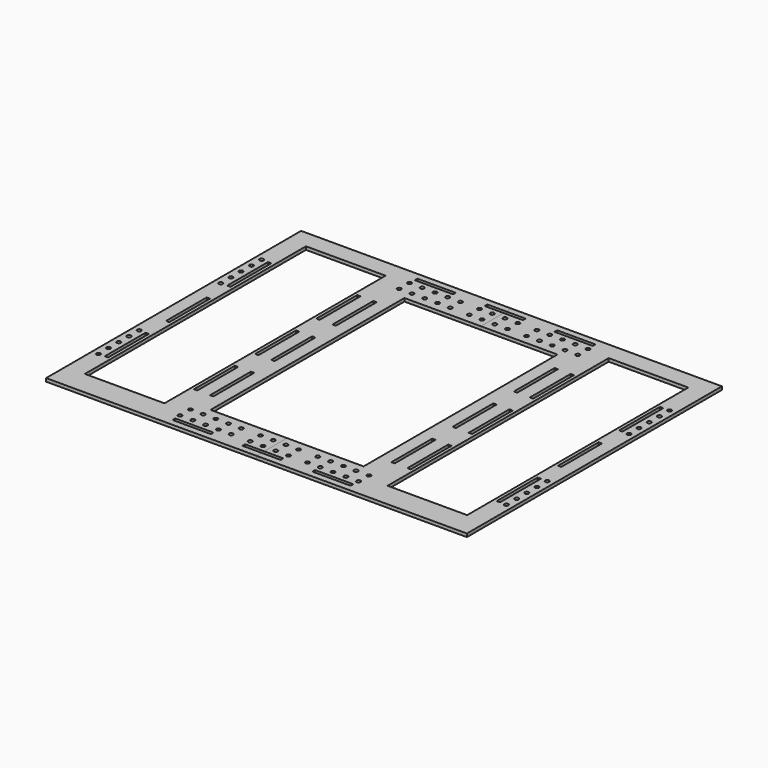
from build123d import *

# Parameters (mm, degrees)
F0_R     = 1.984375
F0_W     = 38.1
F0_H     = 3.302
F0_W_2   = 3.302
F0_H_2   = 50.8
F0_W_3   = 79.248
F0_H_3   = 275.232702
F1_DEPTH = 3.175
F2_DEPTH = 3.175


with BuildPart() as f1:
    # F0 (on Top) → F1 (new body)
    with BuildSketch(Plane.XY):
        Polygon((-107.700216, 150.306364), (-206.125216, 150.306364), (-206.125216, -167.193636), (-107.700216, -167.193636), (3.424784, -167.193636), (3.424784, -160.843636), (-15.625216, -160.843636), (-15.625216, -157.541636), (3.424784, -157.541636), (3.424784, -129.093636), (-72.775216, -129.093636), (-72.775216, 112.206364), (3.424784, 112.206364), (3.424784, 140.654364), (-15.625216, 140.654364), (-15.625216, 143.956364), (3.424784, 143.956364), (3.424784, 150.306364), align=None)
        with Locations((-199.775216, -110.043636)):
            Circle(F0_R, mode=Mode.SUBTRACT)
        with Locations((-199.775216, -97.343636)):
            Circle(F0_R, mode=Mode.SUBTRACT)
        with Locations((-85.475216, -151.191636)):
            Circle(F0_R, mode=Mode.SUBTRACT)
        with Locations((-66.171216, -159.192636)):
            Rectangle(F0_W, F0_H, mode=Mode.SUBTRACT)
        with Locations((-72.775216, -151.191636)):
            Circle(F0_R, mode=Mode.SUBTRACT)
        with Locations((-60.075216, -151.191636)):
            Circle(F0_R, mode=Mode.SUBTRACT)
        with Locations((-85.475216, -138.491636)):
            Circle(F0_R, mode=Mode.SUBTRACT)
        with Locations((-72.775216, -138.491636)):
            Circle(F0_R, mode=Mode.SUBTRACT)
        with Locations((-60.075216, -138.491636)):
            Circle(F0_R, mode=Mode.SUBTRACT)
        with Locations((-47.375216, -151.191636)):
            Circle(F0_R, mode=Mode.SUBTRACT)
        with Locations((-34.675216, -151.191636)):
            Circle(F0_R, mode=Mode.SUBTRACT)
        with Locations((-15.625216, -151.191636)):
            Circle(F0_R, mode=Mode.SUBTRACT)
        with Locations((-2.925216, -151.191636)):
            Circle(F0_R, mode=Mode.SUBTRACT)
        with Locations((-47.375216, -138.491636)):
            Circle(F0_R, mode=Mode.SUBTRACT)
        with Locations((-34.675216, -138.491636)):
            Circle(F0_R, mode=Mode.SUBTRACT)
        with Locations((-15.625216, -138.491636)):
            Circle(F0_R, mode=Mode.SUBTRACT)
        with Locations((-2.925216, -138.491636)):
            Circle(F0_R, mode=Mode.SUBTRACT)
        with Locations((-199.775216, -84.643636)):
            Circle(F0_R, mode=Mode.SUBTRACT)
        with Locations((-191.774216, -84.643636)):
            Rectangle(F0_W_2, F0_H_2, mode=Mode.SUBTRACT)
        with Locations((-199.775216, -71.943636)):
            Circle(F0_R, mode=Mode.SUBTRACT)
        with Locations((-199.775216, -59.243636)):
            Circle(F0_R, mode=Mode.SUBTRACT)
        with Locations((-102.874216, -84.643636)):
            Rectangle(F0_W_2, F0_H_2, mode=Mode.SUBTRACT)
        with Locations((-86.872216, -84.643636)):
            Rectangle(F0_W_2, F0_H_2, mode=Mode.SUBTRACT)
        with Locations((-191.774216, -8.443636)):
            Rectangle(F0_W_2, F0_H_2, mode=Mode.SUBTRACT)
        with Locations((-147.324216, -5.242554)):
            Rectangle(F0_W_3, F0_H_3, mode=Mode.SUBTRACT)
        with Locations((-102.874216, -8.443636)):
            Rectangle(F0_W_2, F0_H_2, mode=Mode.SUBTRACT)
        with Locations((-199.775216, 42.356364)):
            Circle(F0_R, mode=Mode.SUBTRACT)
        with Locations((-199.775216, 55.056364)):
            Circle(F0_R, mode=Mode.SUBTRACT)
        with Locations((-199.775216, 67.756364)):
            Circle(F0_R, mode=Mode.SUBTRACT)
        with Locations((-191.774216, 67.756364)):
            Rectangle(F0_W_2, F0_H_2, mode=Mode.SUBTRACT)
        with Locations((-102.874216, 67.756364)):
            Rectangle(F0_W_2, F0_H_2, mode=Mode.SUBTRACT)
        with Locations((-86.872216, -8.443636)):
            Rectangle(F0_W_2, F0_H_2, mode=Mode.SUBTRACT)
        with Locations((-86.872216, 67.756364)):
            Rectangle(F0_W_2, F0_H_2, mode=Mode.SUBTRACT)
        with Locations((-199.775216, 80.456364)):
            Circle(F0_R, mode=Mode.SUBTRACT)
        with Locations((-199.775216, 93.156364)):
            Circle(F0_R, mode=Mode.SUBTRACT)
        with Locations((-85.475216, 121.604364)):
            Circle(F0_R, mode=Mode.SUBTRACT)
        with Locations((-72.775216, 121.604364)):
            Circle(F0_R, mode=Mode.SUBTRACT)
        with Locations((-60.075216, 121.604364)):
            Circle(F0_R, mode=Mode.SUBTRACT)
        with Locations((-85.475216, 134.304364)):
            Circle(F0_R, mode=Mode.SUBTRACT)
        with Locations((-72.775216, 134.304364)):
            Circle(F0_R, mode=Mode.SUBTRACT)
        with Locations((-60.075216, 134.304364)):
            Circle(F0_R, mode=Mode.SUBTRACT)
        with Locations((-66.171216, 142.305364)):
            Rectangle(F0_W, F0_H, mode=Mode.SUBTRACT)
        with Locations((-47.375216, 121.604364)):
            Circle(F0_R, mode=Mode.SUBTRACT)
        with Locations((-34.675216, 121.604364)):
            Circle(F0_R, mode=Mode.SUBTRACT)
        with Locations((-15.625216, 121.604364)):
            Circle(F0_R, mode=Mode.SUBTRACT)
        with Locations((-2.925216, 121.604364)):
            Circle(F0_R, mode=Mode.SUBTRACT)
        with Locations((-47.375216, 134.304364)):
            Circle(F0_R, mode=Mode.SUBTRACT)
        with Locations((-34.675216, 134.304364)):
            Circle(F0_R, mode=Mode.SUBTRACT)
        with Locations((-15.625216, 134.304364)):
            Circle(F0_R, mode=Mode.SUBTRACT)
        with Locations((-2.925216, 134.304364)):
            Circle(F0_R, mode=Mode.SUBTRACT)
    extrude(amount=F1_DEPTH)


with BuildPart() as f2:
    # F0 (on Top) → F2 (new body)
    with BuildSketch(Plane.XY):
        Polygon((114.549784, 150.306364), (3.424784, 150.306364), (3.424784, 143.956364), (22.474784, 143.956364), (22.474784, 140.654364), (3.424784, 140.654364), (3.424784, 112.206364), (79.624784, 112.206364), (79.624784, -129.093636), (3.424784, -129.093636), (3.424784, -157.541636), (22.474784, -157.541636), (22.474784, -160.843636), (3.424784, -160.843636), (3.424784, -167.193636), (114.549784, -167.193636), (212.974784, -167.193636), (212.974784, 150.306364), align=None)
        with Locations((9.774784, -151.191636)):
            Circle(F0_R, mode=Mode.SUBTRACT)
        with Locations((22.474784, -151.191636)):
            Circle(F0_R, mode=Mode.SUBTRACT)
        with Locations((41.524784, -151.191636)):
            Circle(F0_R, mode=Mode.SUBTRACT)
        with Locations((54.224784, -151.191636)):
            Circle(F0_R, mode=Mode.SUBTRACT)
        with Locations((9.774784, -138.491636)):
            Circle(F0_R, mode=Mode.SUBTRACT)
        with Locations((22.474784, -138.491636)):
            Circle(F0_R, mode=Mode.SUBTRACT)
        with Locations((41.524784, -138.491636)):
            Circle(F0_R, mode=Mode.SUBTRACT)
        with Locations((54.224784, -138.491636)):
            Circle(F0_R, mode=Mode.SUBTRACT)
        with Locations((73.020784, -159.192636)):
            Rectangle(F0_W, F0_H, mode=Mode.SUBTRACT)
        with Locations((66.924784, -151.191636)):
            Circle(F0_R, mode=Mode.SUBTRACT)
        with Locations((79.624784, -151.191636)):
            Circle(F0_R, mode=Mode.SUBTRACT)
        with Locations((92.324784, -151.191636)):
            Circle(F0_R, mode=Mode.SUBTRACT)
        with Locations((66.924784, -138.491636)):
            Circle(F0_R, mode=Mode.SUBTRACT)
        with Locations((79.624784, -138.491636)):
            Circle(F0_R, mode=Mode.SUBTRACT)
        with Locations((92.324784, -138.491636)):
            Circle(F0_R, mode=Mode.SUBTRACT)
        with Locations((206.624784, -110.043636)):
            Circle(F0_R, mode=Mode.SUBTRACT)
        with Locations((206.624784, -97.343636)):
            Circle(F0_R, mode=Mode.SUBTRACT)
        with Locations((93.721784, -84.643636)):
            Rectangle(F0_W_2, F0_H_2, mode=Mode.SUBTRACT)
        with Locations((109.723784, -84.643636)):
            Rectangle(F0_W_2, F0_H_2, mode=Mode.SUBTRACT)
        with Locations((198.623784, -84.643636)):
            Rectangle(F0_W_2, F0_H_2, mode=Mode.SUBTRACT)
        with Locations((206.624784, -84.643636)):
            Circle(F0_R, mode=Mode.SUBTRACT)
        with Locations((206.624784, -71.943636)):
            Circle(F0_R, mode=Mode.SUBTRACT)
        with Locations((206.624784, -59.243636)):
            Circle(F0_R, mode=Mode.SUBTRACT)
        with Locations((93.721784, -8.443636)):
            Rectangle(F0_W_2, F0_H_2, mode=Mode.SUBTRACT)
        with Locations((93.721784, 67.756364)):
            Rectangle(F0_W_2, F0_H_2, mode=Mode.SUBTRACT)
        with Locations((109.723784, -8.443636)):
            Rectangle(F0_W_2, F0_H_2, mode=Mode.SUBTRACT)
        with Locations((154.173784, -5.242554)):
            Rectangle(F0_W_3, F0_H_3, mode=Mode.SUBTRACT)
        with Locations((198.623784, -8.443636)):
            Rectangle(F0_W_2, F0_H_2, mode=Mode.SUBTRACT)
        with Locations((109.723784, 67.756364)):
            Rectangle(F0_W_2, F0_H_2, mode=Mode.SUBTRACT)
        with Locations((206.624784, 42.356364)):
            Circle(F0_R, mode=Mode.SUBTRACT)
        with Locations((206.624784, 55.056364)):
            Circle(F0_R, mode=Mode.SUBTRACT)
        with Locations((198.623784, 67.756364)):
            Rectangle(F0_W_2, F0_H_2, mode=Mode.SUBTRACT)
        with Locations((206.624784, 67.756364)):
            Circle(F0_R, mode=Mode.SUBTRACT)
        with Locations((9.774784, 121.604364)):
            Circle(F0_R, mode=Mode.SUBTRACT)
        with Locations((22.474784, 121.604364)):
            Circle(F0_R, mode=Mode.SUBTRACT)
        with Locations((41.524784, 121.604364)):
            Circle(F0_R, mode=Mode.SUBTRACT)
        with Locations((54.224784, 121.604364)):
            Circle(F0_R, mode=Mode.SUBTRACT)
        with Locations((9.774784, 134.304364)):
            Circle(F0_R, mode=Mode.SUBTRACT)
        with Locations((22.474784, 134.304364)):
            Circle(F0_R, mode=Mode.SUBTRACT)
        with Locations((41.524784, 134.304364)):
            Circle(F0_R, mode=Mode.SUBTRACT)
        with Locations((54.224784, 134.304364)):
            Circle(F0_R, mode=Mode.SUBTRACT)
        with Locations((66.924784, 121.604364)):
            Circle(F0_R, mode=Mode.SUBTRACT)
        with Locations((79.624784, 121.604364)):
            Circle(F0_R, mode=Mode.SUBTRACT)
        with Locations((92.324784, 121.604364)):
            Circle(F0_R, mode=Mode.SUBTRACT)
        with Locations((66.924784, 134.304364)):
            Circle(F0_R, mode=Mode.SUBTRACT)
        with Locations((79.624784, 134.304364)):
            Circle(F0_R, mode=Mode.SUBTRACT)
        with Locations((73.020784, 142.305364)):
            Rectangle(F0_W, F0_H, mode=Mode.SUBTRACT)
        with Locations((92.324784, 134.304364)):
            Circle(F0_R, mode=Mode.SUBTRACT)
        with Locations((206.624784, 80.456364)):
            Circle(F0_R, mode=Mode.SUBTRACT)
        with Locations((206.624784, 93.156364)):
            Circle(F0_R, mode=Mode.SUBTRACT)
    extrude(amount=F2_DEPTH)


solid = Compound([f1.part, f2.part])
